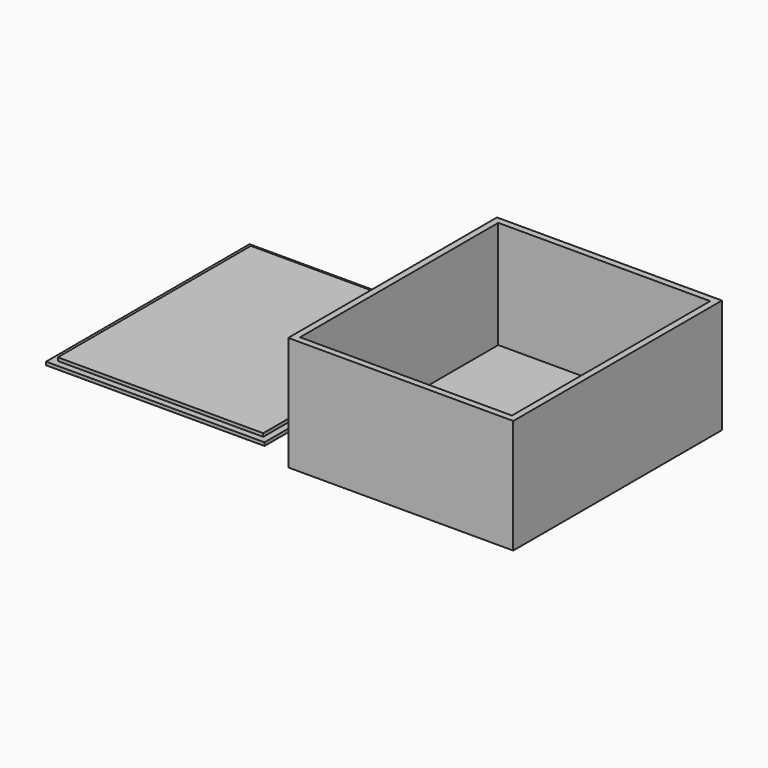
from build123d import *

# Parameters (mm, degrees)
F0_W      = 69
F0_H      = 80
F1_DEPTH  = 2
F2_W      = 69
F2_H      = 2
F3_DEPTH  = 33
F4_W      = 2
F4_H      = 78
F5_DEPTH  = 33
F6_W      = 2
F6_H      = 78
F7_DEPTH  = 33
F8_W      = 65
F8_H      = 2
F9_DEPTH  = 33
F10_W     = 67
F10_H     = 78
F11_DEPTH = 2
F12_W     = 2
F12_H     = 74
F13_DEPTH = 1
F14_W     = 45.5
F14_H     = 25.8
F14_R     = 3.35
F15_DEPTH = 2.001


with BuildPart() as f1:
    # F0 (on Top) → F1 (new body)
    with BuildSketch(Plane.XY):
        Rectangle(F0_W, F0_H)
    extrude(amount=F1_DEPTH)

    # F2 (on face) → F3 (join)
    with BuildSketch(Plane.XY.offset(2)):
        with Locations((0, 39)):
            Rectangle(F2_W, F2_H)
    extrude(amount=F3_DEPTH)

    # F4 (on face) → F5 (join)
    with BuildSketch(Plane.XY.offset(2)):
        with Locations((-33.5, -1)):
            Rectangle(F4_W, F4_H)
    extrude(amount=F5_DEPTH)

    # F6 (on face) → F7 (join)
    with BuildSketch(Plane.XY.offset(2)):
        with Locations((33.5, -1)):
            Rectangle(F6_W, F6_H)
    extrude(amount=F7_DEPTH)

    # F8 (on face) → F9 (join)
    with BuildSketch(Plane.XY.offset(2)):
        with Locations((0, -39)):
            Rectangle(F8_W, F8_H)
    extrude(amount=F9_DEPTH)

    # F14 (on face) → F15 (cut, through all)
    with BuildSketch(Plane.XY.offset(2)):
        with Locations((0.503039, -22.749831)):
            Rectangle(F14_W, F14_H)
        with Locations((0, 26.914014)):
            Circle(F14_R)
    extrude(amount=-F15_DEPTH, mode=Mode.SUBTRACT)


with BuildPart() as f11:
    # F10 (on Top) → F11 (new body)
    with BuildSketch(Plane.XY):
        with Locations((-79.397546, 4.147368)):
            Rectangle(F10_W, F10_H)
    extrude(amount=F11_DEPTH)

    # F12 (on face) → F13 (cut)
    with BuildSketch(Plane.XY.offset(2)):
        Polygon((-112.897546, -34.852632), (-45.897546, -34.852632), (-45.897546, -32.852632), (-47.897546, -32.852632), (-110.897546, -32.852632), (-112.897546, -32.852632), align=None)
        with Locations((-111.897546, 4.147368)):
            Rectangle(F12_W, F12_H)
        Polygon((-112.897546, 43.147368), (-112.897546, 41.147368), (-110.897546, 41.147368), (-47.897546, 41.147368), (-47.897546, 43.147368), align=None)
        Polygon((-47.897546, -32.852632), (-45.897546, -32.852632), (-45.897546, 43.147368), (-47.897546, 43.147368), (-47.897546, 41.147368), align=None)
    extrude(amount=-F13_DEPTH, mode=Mode.SUBTRACT)


solid = Compound([f1.part, f11.part])
